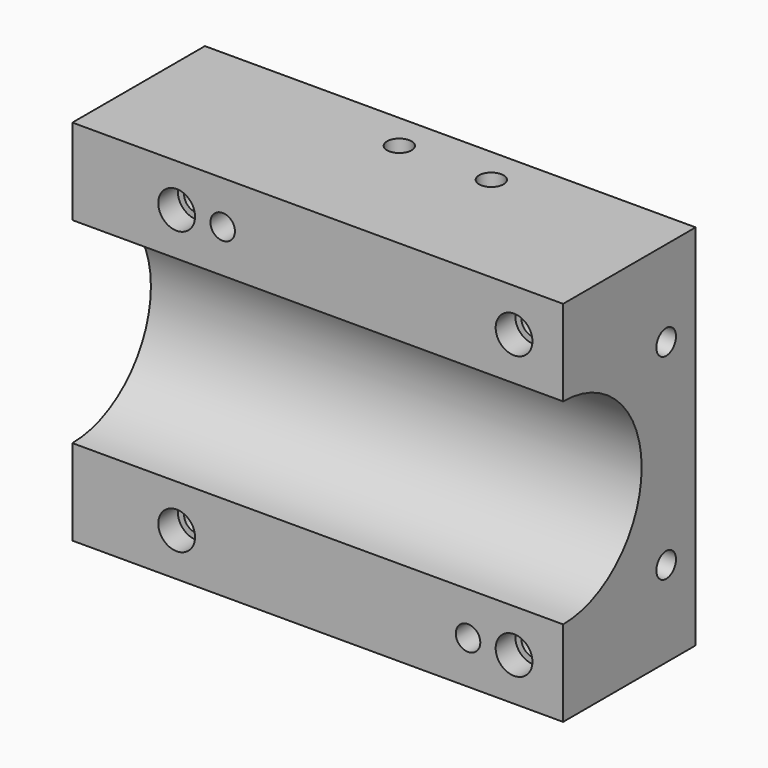
from build123d import *

# Parameters (mm, degrees)
F0_W      = 254
F0_H      = 190.5
F1_DEPTH  = 85.725
F3_DEPTH  = 127
F4_R      = 9.525
F5_DEPTH  = 12.7
F6_R      = 6.35
F7_DEPTH  = 85.725
F8_R      = 6.35
F9_R      = 6.35
F10_DEPTH = 82.55
F12_D     = 12.7
F12_DEPTH = 31.75
F12_TIP   = 3.8154649308
F14_D     = 12.7
F14_DEPTH = 31.75
F14_TIP   = 3.8154649308


with BuildPart() as f1:
    # F0 (on Front) → F1 (new body)
    with BuildSketch(Plane.XZ):
        Rectangle(F0_W, F0_H)
    extrude(amount=-F1_DEPTH)

    # F2 (on Right) → F3 (cut, symmetric)
    with BuildSketch(Plane.YZ):
        with BuildLine():
            Line((0, 0), (0, -50.8))
            ThreePointArc((0, -50.8), (50.8, 0), (0, 50.8))
            Line((0, 50.8), (0, 0))
        make_face()
    extrude(amount=F3_DEPTH, both=True, mode=Mode.SUBTRACT)

    # F4 (on face) → F5 (cut)
    with BuildSketch(Plane.XZ):
        with Locations((-73.025, 73.025)):
            Circle(F4_R)
        with Locations((-73.025, -73.025)):
            Circle(F4_R)
        with Locations((101.6, 73.025)):
            Circle(F4_R)
        with Locations((101.6, -73.025)):
            Circle(F4_R)
    extrude(amount=-F5_DEPTH, mode=Mode.SUBTRACT)

    # F6 (on face) → F7 (cut, through all)
    with BuildSketch(Plane.XZ):
        with Locations((-49.2125, 73.025)):
            Circle(F6_R)
        with Locations((77.7875, -73.025)):
            Circle(F6_R)
    extrude(amount=-F7_DEPTH, mode=Mode.SUBTRACT)

    # F8 (on face) + F9 (on face) → F10 (cut)
    with BuildSketch(Plane.XZ.offset(-12.7)):
        with Locations((-73.025, 73.025)):
            Circle(F8_R)
        with Locations((-73.025, -73.025)):
            Circle(F8_R)
    with BuildSketch(Plane.XZ.offset(-12.7)):
        with Locations((101.6, 73.025)):
            Circle(F9_R)
        with Locations((101.6, -73.025)):
            Circle(F9_R)
    extrude(amount=-F10_DEPTH, mode=Mode.SUBTRACT)

    # F12
    with Locations(Plane.XY.offset(95.25)):
        with Locations((-11.1125, 66.675), (36.5125, 66.675)):
            Hole(F12_D / 2, depth=F12_DEPTH)
            with Locations((0, 0, -(F12_DEPTH + F12_TIP / 2))):  # 118° drill point
                Cone(0, F12_D / 2, F12_TIP, mode=Mode.SUBTRACT)

    # F14
    with Locations(Plane.YZ.offset(127)):
        with Locations((66.675, 50.8), (66.675, -50.8)):
            Hole(F14_D / 2, depth=F14_DEPTH)
            with Locations((0, 0, -(F14_DEPTH + F14_TIP / 2))):  # 118° drill point
                Cone(0, F14_D / 2, F14_TIP, mode=Mode.SUBTRACT)


solid = f1.part
